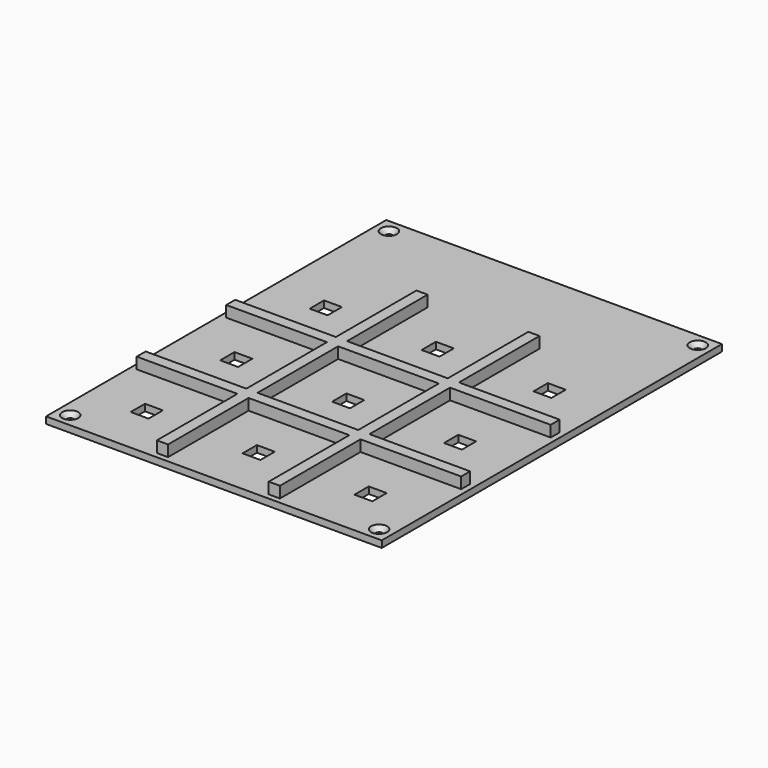
from build123d import *

# Parameters (mm, degrees)
CYLINDER006_R            = 1.6
CYLINDER006_DEPTH        = 10
BOX005_W                 = 5
BOX005_H                 = 145
BOX005_DEPTH             = 5
CLONE001_PLACEMENT_ANGLE = 90
BOX003_W                 = 8
BOX003_H                 = 8
BOX003_DEPTH             = 20
ARRAY001_X_COUNT         = 3
ARRAY001_X_PITCH         = 50
ARRAY001_Y_COUNT         = 3
ARRAY001_Y_PITCH         = 50
BOX002_W                 = 150
BOX002_H                 = 190
BOX002_DEPTH             = 3
CLONE002_PLACEMENT_ANGLE = 90
CHAMFER_SIZE             = 2


with BuildPart() as cylinder006:
    # Cylinder006 → Cylinder006 (new body)
    with BuildSketch(Plane(origin=(-9, 169, 6.3), x_dir=(1, 0, 0), z_dir=(0, 0, 1))):
        Circle(CYLINDER006_R)
    extrude(amount=CYLINDER006_DEPTH)


with BuildPart() as clone_of_cylinder007:
    # Clone007 base: copy of Cylinder006
    add(cylinder006.part)


with BuildPart() as clone_of_cylinder007_1:
    # Clone007 placement: moved
    add(clone_of_cylinder007.part.moved(Location((138, 0, 0))))


with BuildPart() as clone_of_cylinder006:
    # Clone006 base: copy of Cylinder006
    add(cylinder006.part)


with BuildPart() as clone_of_cylinder006_1:
    # Clone006 placement: moved
    add(clone_of_cylinder006.part.moved(Location((138, -178, 0))))


with BuildPart() as clone_of_fusion007:
    # Clone008 base: copy of Cylinder006
    add(cylinder006.part)


with BuildPart() as clone_of_fusion007_1:
    # Clone008 placement: moved
    add(clone_of_fusion007.part.moved(Location((0, -178, 0))))

    # Fusion007: union Clone of Cylinder007, Clone of Cylinder006, Cylinder006
    add(clone_of_cylinder007_1.part)
    add(clone_of_cylinder006_1.part)
    add(cylinder006.part)


with BuildPart() as clone_of_fusion007_2:
    # Clone009 placement: moved
    add(clone_of_fusion007_1.part.moved(Location((0, 0, 5))))


with BuildPart() as cube005:
    # Box005 → Box005 (new body)
    with BuildSketch(Plane(origin=(82.5, -12.5, 19.3), x_dir=(1, 0, 0), z_dir=(0, 0, 1))):
        with Locations((2.5, 72.5)):
            Rectangle(BOX005_W, BOX005_H)
    extrude(amount=BOX005_DEPTH)


with BuildPart() as clone_of_cube006:
    # Clone001 base: copy of Cube005
    add(cube005.part)


with BuildPart() as clone_of_cube006_1:
    # Clone001 placement: moved
    add(clone_of_cube006.part.moved(Location((120, 0, 0))).rotate(Axis((120, 0, 0), (0, 0, 1)), CLONE001_PLACEMENT_ANGLE))


with BuildPart() as clone_of_cube005:
    # Clone base: copy of Cube005
    add(cube005.part)


with BuildPart() as clone_of_cube005_1:
    # Clone placement: moved
    add(clone_of_cube005.part.moved(Location((-50, 0, 0))))


with BuildPart() as array001:
    # Box003 → Box003 (new body)
    with BuildSketch(Plane(origin=(6, 6, 5), x_dir=(1, 0, 0), z_dir=(0, 0, 1))):
        with Locations((4, 4)):
            Rectangle(BOX003_W, BOX003_H)
    extrude(amount=BOX003_DEPTH)

    # Array001 X: Array001 ×3


with BuildPart() as array001_1:
    add(array001.part)
    with Locations(*[(i * ARRAY001_X_PITCH, 0, 0) for i in range(1, ARRAY001_X_COUNT)]):
        add(array001.part)

    # Array001 Y: Array001 ×3


with BuildPart() as array001_2:
    add(array001_1.part)
    with Locations(*[(0, i * ARRAY001_Y_PITCH, 0) for i in range(1, ARRAY001_Y_COUNT)]):
        add(array001_1.part)


with BuildPart() as cut:
    # Box002 → Box002 (new body)
    with BuildSketch(Plane(origin=(-15, -15, 16.3), x_dir=(1, 0, 0), z_dir=(0, 0, 1))):
        with Locations((75, 95)):
            Rectangle(BOX002_W, BOX002_H)
    extrude(amount=BOX002_DEPTH)

    # Cut: cut Array001
    add(array001_2.part, mode=Mode.SUBTRACT)


with BuildPart() as chamfer_body:
    # Clone002 base: copy of Cube005
    add(cube005.part)


with BuildPart() as chamfer_body_1:
    # Clone002 placement: moved
    add(chamfer_body.part.moved(Location((120, -50, 0))).rotate(Axis((120, -50, 0), (0, 0, 1)), CLONE002_PLACEMENT_ANGLE))

    # Fusion005: union Clone of Cube006, Clone of Cube005, Cube005, Cut
    add(clone_of_cube006_1.part)
    add(clone_of_cube005_1.part)
    add(cube005.part)
    add(cut.part)

    # Cut005: cut Clone of Fusion007
    add(clone_of_fusion007_2.part, mode=Mode.SUBTRACT)

    # Chamfer
    chamfer_edges = [chamfer_body_1.edges().sort_by_distance(p)[0] for p in [
        (127.4, -9, 19.3),
        (-10.6, -9, 19.3),
        (127.4, 169, 19.3),
        (-10.6, 169, 19.3),
    ]]
    chamfer(chamfer_edges, length=CHAMFER_SIZE)


solid = chamfer_body_1.part
